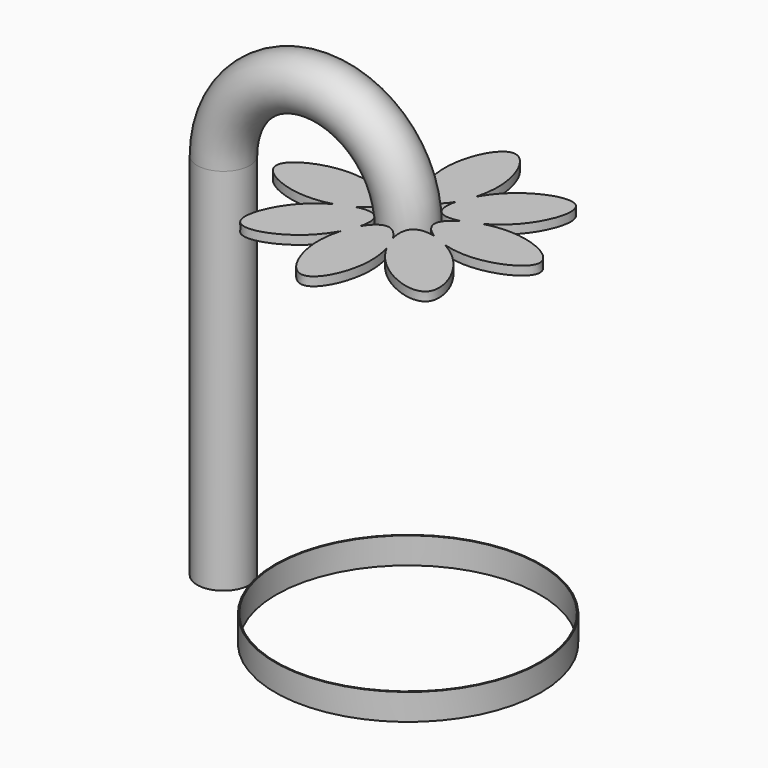
from build123d import *

# Parameters (mm, degrees)
F0_R     = 768.35
F0_R_2   = 762
F2_DEPTH = 152.4
F3_R     = 152.4
F6_DEPTH = 50.8


with BuildPart() as f2:
    # F0 (on Top) → F2 (new body)
    with BuildSketch(Plane.XY):
        Circle(F0_R)
        Circle(F0_R_2, mode=Mode.SUBTRACT)
    extrude(amount=F2_DEPTH)


with BuildPart() as f4:
    # F4: sweep along a path in F1
    with BuildLine(Plane.XZ) as f4_path:
        Line((-1066.8, 0), (-1066.8, 2133.6))
        ThreePointArc((-1066.8, 2133.6), (-533.4, 2667), (0, 2133.6))
    # F3 (on Top) → F4 (sweep)
    with BuildSketch(Plane.XY):
        with Locations((-1066.8, 0)):
            Circle(F3_R)
    sweep(path=f4_path.line)


with BuildPart() as f6:
    # F5 (on face) → F6 (new body)
    with BuildSketch(Plane(origin=(0, 0, 2133.6), x_dir=(1, 0, 0), z_dir=(0, 0, -1))):
        with BuildLine():
            add(Edge.make_bspline(
                [(0, 152.4), (-33.9863916978, 152.4), (-67.9727833955, 182.7169244261), (-95.1982638819, 229.8289508555)],
                knots=[0, 0, 0, 0, 0.1115039098, 0.1115039098, 0.1115039098, 0.1115039098], degree=3))
            add(Edge.make_bspline(
                [(95.1983081161, 229.8290274001), (67.9728202081, 182.7169572641), (33.9864101041, 152.4), (0, 152.4)],
                knots=[0.8884960298, 0.8884960298, 0.8884960298, 0.8884960298, 1, 1, 1, 1], degree=3))
            add(Edge.make_bspline(
                [(95.1983081161, 229.8290274001), (102.9814227805, 258.9229000048), (115.8672800287, 290.1903934408), (133.0452629742, 321.1996570491)],
                knots=[0.1115039746, 0.1115039746, 0.1115039746, 0.1115039746, 0.1732200877, 0.1732200877, 0.1732200877, 0.1732200877], degree=3))
            add(Edge.make_bspline(
                [(-133.0452885204, 321.1997460504), (-145.2126364631, 363.5899918586), (-175.8025020354, 562.7949959293), (0, 914.4), (175.8025184138, 562.7949631725), (145.2126264028, 363.589926345), (133.0452629742, 321.1996570491)],
                knots=[0.1732201377, 0.1732201377, 0.1732201377, 0.1732201377, 0.25, 0.5, 0.75, 0.8267799161, 0.8267799161, 0.8267799161, 0.8267799161], degree=3))
            add(Edge.make_bspline(
                [(-133.0452885204, 321.1997460504), (-115.8672658629, 290.1904260745), (-102.9813838682, 258.9228729972), (-95.1982638819, 229.8289508555)],
                knots=[0.8267798533, 0.8267798533, 0.8267798533, 0.8267798533, 0.8884960795, 0.8884960795, 0.8884960795, 0.8884960795], degree=3))
        make_face()
        with BuildLine():
            add(Edge.make_bspline(
                [(-95.1982638819, 229.8289508555), (-81.1363478478, 177.2643892169), (-83.7310512319, 131.7950719165), (-107.7630615742, 107.7630615742)],
                knots=[0.8884960795, 0.8884960795, 0.8884960795, 0.8884960795, 1, 1, 1, 1], degree=3))
            add(Edge.make_bspline(
                [(-95.1982638819, 229.8289508555), (-110.267277714, 255.9049563195), (-123.2650831907, 287.1261492456), (-133.0452885204, 321.1997460504)],
                knots=[0.1115039098, 0.1115039098, 0.1115039098, 0.1115039098, 0.1732201377, 0.1732201377, 0.1732201377, 0.1732201377], degree=3))
            add(Edge.make_bspline(
                [(-321.1997460503, 133.0452885204), (-359.7777859078, 154.4161035938), (-522.2672894533, 273.6450106831), (-646.5784288384, 646.5784288384), (-273.6450106831, 522.2672894533), (-154.4161035938, 359.7777859079), (-133.0452885204, 321.1997460504)],
                knots=[0.1732201467, 0.1732201467, 0.1732201467, 0.1732201467, 0.25, 0.5, 0.75, 0.8267798533, 0.8267798533, 0.8267798533, 0.8267798533], degree=3))
            add(Edge.make_bspline(
                [(-321.1997460503, 133.0452885204), (-287.1261492455, 123.2650831907), (-255.9049563194, 110.267277714), (-229.8289508555, 95.1982638819)],
                knots=[0.3267798623, 0.3267798623, 0.3267798623, 0.3267798623, 0.3884960902, 0.3884960902, 0.3884960902, 0.3884960902], degree=3))
            add(Edge.make_bspline(
                [(-107.7630615742, 107.7630615742), (-131.7950719165, 83.731051232), (-177.2643892169, 81.1363478478), (-229.8289508555, 95.1982638819)],
                knots=[0, 0, 0, 0, 0.1115039205, 0.1115039205, 0.1115039205, 0.1115039205], degree=3))
        make_face()
        with BuildLine():
            add(Edge.make_bspline(
                [(-95.1982638819, 229.8289508555), (-110.267277714, 255.9049563195), (-123.2650831907, 287.1261492456), (-133.0452885204, 321.1997460504)],
                knots=[0.1115039098, 0.1115039098, 0.1115039098, 0.1115039098, 0.1732201377, 0.1732201377, 0.1732201377, 0.1732201377], degree=3))
            add(Edge.make_bspline(
                [(-133.0452885204, 321.1997460504), (-115.8672658629, 290.1904260745), (-102.9813838682, 258.9228729972), (-95.1982638819, 229.8289508555)],
                knots=[0.8267798533, 0.8267798533, 0.8267798533, 0.8267798533, 0.8884960795, 0.8884960795, 0.8884960795, 0.8884960795], degree=3))
        make_face()
        with BuildLine():
            add(Edge.make_bspline(
                [(95.1983081161, 229.8290274001), (102.9814227805, 258.9229000048), (115.8672800287, 290.1903934408), (133.0452629742, 321.1996570491)],
                knots=[0.1115039746, 0.1115039746, 0.1115039746, 0.1115039746, 0.1732200877, 0.1732200877, 0.1732200877, 0.1732200877], degree=3))
            add(Edge.make_bspline(
                [(133.0452629742, 321.1996570491), (123.2650701267, 287.1261282188), (110.2672900299, 255.9049947143), (95.1983081161, 229.8290274001)],
                knots=[0.8267799161, 0.8267799161, 0.8267799161, 0.8267799161, 0.8884960298, 0.8884960298, 0.8884960298, 0.8884960298], degree=3))
        make_face()
        with BuildLine():
            add(Edge.make_bspline(
                [(133.0452629742, 321.1996570491), (123.2650701267, 287.1261282188), (110.2672900299, 255.9049947143), (95.1983081161, 229.8290274001)],
                knots=[0.8267799161, 0.8267799161, 0.8267799161, 0.8267799161, 0.8884960298, 0.8884960298, 0.8884960298, 0.8884960298], degree=3))
            add(Edge.make_bspline(
                [(107.7630853314, 107.7630615742), (83.731063324, 131.7950835816), (81.1363690861, 177.2644333586), (95.1983081161, 229.8290274001)],
                knots=[0, 0, 0, 0, 0.1115039746, 0.1115039746, 0.1115039746, 0.1115039746], degree=3))
            add(Edge.make_bspline(
                [(229.8289303785, 95.1982520485), (177.2643874652, 81.1363493035), (131.7950889326, 83.7310579731), (107.7630853314, 107.7630615742)],
                knots=[0.8884961108, 0.8884961108, 0.8884961108, 0.8884961108, 1, 1, 1, 1], degree=3))
            add(Edge.make_bspline(
                [(229.8289303785, 95.1982520485), (255.9049525516, 110.2672781775), (287.1261704438, 123.2650931689), (321.1997953538, 133.0453026721)],
                knots=[0.1115038936, 0.1115038936, 0.1115038936, 0.1115038936, 0.1732201674, 0.1732201674, 0.1732201674, 0.1732201674], degree=3))
            add(Edge.make_bspline(
                [(133.0452629742, 321.1996570491), (154.4160842648, 359.7777271884), (273.6449962632, 522.2672767276), (646.5784525956, 646.5784288384), (522.2673168632, 273.6450216411), (359.7778265194, 154.4161159609), (321.1997953538, 133.0453026721)],
                knots=[0.1732200877, 0.1732200877, 0.1732200877, 0.1732200877, 0.25, 0.5, 0.75, 0.8267798363, 0.8267798363, 0.8267798363, 0.8267798363], degree=3))
        make_face()
        with BuildLine():
            add(Edge.make_bspline(
                [(-229.8289508555, 95.1982638819), (-258.9228729971, 102.9813838681), (-290.1904260744, 115.8672658628), (-321.1997460503, 133.0452885204)],
                knots=[0.1115039205, 0.1115039205, 0.1115039205, 0.1115039205, 0.1732201467, 0.1732201467, 0.1732201467, 0.1732201467], degree=3))
            add(Edge.make_bspline(
                [(-762, 0), (-762, 76.2), (-562.7949959292, 175.8025020354), (-363.5899918585, 145.212636463), (-321.1997460503, 133.0452885204)],
                knots=[0, 0, 0, 0, 0.25, 0.3267798623, 0.3267798623, 0.3267798623, 0.3267798623], degree=3))
            add(Edge.make_bspline(
                [(-321.1996771495, -133.0452687437), (-363.5899411409, -145.2126286749), (-562.7949705704, -175.8025147148), (-762, -76.2), (-762, 0)],
                knots=[0.6732200961, 0.6732200961, 0.6732200961, 0.6732200961, 0.75, 1, 1, 1, 1], degree=3))
            add(Edge.make_bspline(
                [(-321.1996771496, -133.0452687437), (-290.1903967598, -115.8672731593), (-258.9228858823, -102.9814080213), (-229.8289992228, -95.1982918328)],
                knots=[0.3267799011, 0.3267799011, 0.3267799011, 0.3267799011, 0.3884960498, 0.3884960498, 0.3884960498, 0.3884960498], degree=3))
            add(Edge.make_bspline(
                [(-229.8289508555, 95.1982638819), (-182.7169244261, 67.9727833955), (-122.083065199, -1.16306e-05), (-182.7169451759, -67.9728066568), (-229.8289992228, -95.1982918328)],
                knots=[0.3884960902, 0.3884960902, 0.3884960902, 0.3884960902, 0.5, 0.6115039479, 0.6115039479, 0.6115039479, 0.6115039479], degree=3))
        make_face()
        with BuildLine():
            add(Edge.make_bspline(
                [(-321.1997460503, 133.0452885204), (-287.1261492455, 123.2650831907), (-255.9049563194, 110.267277714), (-229.8289508555, 95.1982638819)],
                knots=[0.3267798623, 0.3267798623, 0.3267798623, 0.3267798623, 0.3884960902, 0.3884960902, 0.3884960902, 0.3884960902], degree=3))
            add(Edge.make_bspline(
                [(-229.8289508555, 95.1982638819), (-258.9228729971, 102.9813838681), (-290.1904260744, 115.8672658628), (-321.1997460503, 133.0452885204)],
                knots=[0.1115039205, 0.1115039205, 0.1115039205, 0.1115039205, 0.1732201467, 0.1732201467, 0.1732201467, 0.1732201467], degree=3))
        make_face()
        with BuildLine():
            add(Edge.make_bspline(
                [(321.1997953538, 133.0453026721), (290.1904512888, 115.8672642342), (258.9228730512, 102.9813729444), (229.8289303785, 95.1982520485)],
                knots=[0.8267798363, 0.8267798363, 0.8267798363, 0.8267798363, 0.8884961108, 0.8884961108, 0.8884961108, 0.8884961108], degree=3))
            add(Edge.make_bspline(
                [(229.8289303785, 95.1982520485), (255.9049525516, 110.2672781775), (287.1261704438, 123.2650931689), (321.1997953538, 133.0453026721)],
                knots=[0.1115038936, 0.1115038936, 0.1115038936, 0.1115038936, 0.1732201674, 0.1732201674, 0.1732201674, 0.1732201674], degree=3))
        make_face()
        with BuildLine():
            add(Edge.make_bspline(
                [(321.1997953538, 133.0453026721), (363.5900281506, 145.2126420361), (562.7950140753, 175.8024929623), (914.4, 0), (562.7949813186, -175.8025093407), (363.5899626372, -145.2126319758), (321.1997063526, -133.0452771259)],
                knots=[0.1732201674, 0.1732201674, 0.1732201674, 0.1732201674, 0.25, 0.5, 0.75, 0.8267798863, 0.8267798863, 0.8267798863, 0.8267798863], degree=3))
            add(Edge.make_bspline(
                [(321.1997953538, 133.0453026721), (290.1904512888, 115.8672642342), (258.9228730512, 102.9813729444), (229.8289303785, 95.1982520485)],
                knots=[0.8267798363, 0.8267798363, 0.8267798363, 0.8267798363, 0.8884961108, 0.8884961108, 0.8884961108, 0.8884961108], degree=3))
            add(Edge.make_bspline(
                [(152.4, 0), (152.4, 33.9863867738), (182.7169156414, 67.9727735475), (229.8289303785, 95.1982520485)],
                knots=[0, 0, 0, 0, 0.1115038936, 0.1115038936, 0.1115038936, 0.1115038936], degree=3))
            add(Edge.make_bspline(
                [(229.8290069231, -95.1982962827), (182.7169484794, -67.9728103601), (152.4, -33.9864051801), (152.4, 0)],
                knots=[0.888496046, 0.888496046, 0.888496046, 0.888496046, 1, 1, 1, 1], degree=3))
            add(Edge.make_bspline(
                [(229.8290069231, -95.1982962827), (258.9229000588, -102.9814118568), (290.1904186552, -115.8672784), (321.1997063526, -133.0452771259)],
                knots=[0.1115039433, 0.1115039433, 0.1115039433, 0.1115039433, 0.1732201046, 0.1732201046, 0.1732201046, 0.1732201046], degree=3))
        make_face()
        with BuildLine():
            add(Edge.make_bspline(
                [(-229.8289992228, -95.1982918328), (-177.2644229566, -81.1363615976), (-131.7950903554, -83.7310580514), (-107.7630734528, -107.7630734528)],
                knots=[0.3884960498, 0.3884960498, 0.3884960498, 0.3884960498, 0.4999999972, 0.4999999972, 0.4999999972, 0.4999999972], degree=3))
            add(Edge.make_bspline(
                [(-229.8289992228, -95.1982918328), (-255.9049773504, -110.2672836296), (-287.1261282242, -123.2650717156), (-321.1996771495, -133.0452687437)],
                knots=[0.6115039479, 0.6115039479, 0.6115039479, 0.6115039479, 0.6732200961, 0.6732200961, 0.6732200961, 0.6732200961], degree=3))
            add(Edge.make_bspline(
                [(-538.8153553855, -538.8153791428), (-592.6968922109, -484.9338425153), (-522.267276078, -273.6450070554), (-359.7777402386, -154.4160902871), (-321.1996771496, -133.0452687437)],
                knots=[0, 0, 0, 0, 0.25, 0.3267799011, 0.3267799011, 0.3267799011, 0.3267799011], degree=3))
            add(Edge.make_bspline(
                [(-133.0452969026, -321.1997752533), (-154.4161099387, -359.7778134692), (-273.6450108489, -522.2673175128), (-484.9338185601, -592.6969157702), (-538.8153553855, -538.8153791428)],
                knots=[0.6732201525, 0.6732201525, 0.6732201525, 0.6732201525, 0.75, 1, 1, 1, 1], degree=3))
            add(Edge.make_bspline(
                [(-133.0452969026, -321.1997752533), (-123.26509158, -287.1261704384), (-110.2672845778, -255.9049699154), (-95.1982683318, -229.8289585557)],
                knots=[0.8267798447, 0.8267798447, 0.8267798447, 0.8267798447, 0.8884960842, 0.8884960842, 0.8884960842, 0.8884960842], degree=3))
            add(Edge.make_bspline(
                [(-107.7630734528, -107.7630734528), (-83.7310632458, -131.7950821588), (-81.136356792, -177.2643978671), (-95.1982683318, -229.8289585557)],
                knots=[0.4999999972, 0.4999999972, 0.4999999972, 0.4999999972, 0.6115039136, 0.6115039136, 0.6115039136, 0.6115039136], degree=3))
        make_face()
        with BuildLine():
            add(Edge.make_bspline(
                [(-229.8289992228, -95.1982918328), (-255.9049773504, -110.2672836296), (-287.1261282242, -123.2650717156), (-321.1996771495, -133.0452687437)],
                knots=[0.6115039479, 0.6115039479, 0.6115039479, 0.6115039479, 0.6732200961, 0.6732200961, 0.6732200961, 0.6732200961], degree=3))
            add(Edge.make_bspline(
                [(-321.1996771496, -133.0452687437), (-290.1903967598, -115.8672731593), (-258.9228858823, -102.9814080213), (-229.8289992228, -95.1982918328)],
                knots=[0.3267799011, 0.3267799011, 0.3267799011, 0.3267799011, 0.3884960498, 0.3884960498, 0.3884960498, 0.3884960498], degree=3))
        make_face()
        with BuildLine():
            add(Edge.make_bspline(
                [(321.1997063526, -133.0452771259), (359.7777678, -154.416096632), (522.2673041375, -273.6450072213), (646.5784525956, -646.5784525956), (273.6450072213, -522.2673041375), (154.416096632, -359.7777678), (133.0452771259, -321.1997063526)],
                knots=[0.1732201046, 0.1732201046, 0.1732201046, 0.1732201046, 0.25, 0.5, 0.75, 0.8267798954, 0.8267798954, 0.8267798954, 0.8267798954], degree=3))
            add(Edge.make_bspline(
                [(321.1997063526, -133.0452771259), (287.1261494171, -123.2650801049), (255.9049909464, -110.2672904934), (229.8290069231, -95.1982962827)],
                knots=[0.8267798863, 0.8267798863, 0.8267798863, 0.8267798863, 0.888496046, 0.888496046, 0.888496046, 0.888496046], degree=3))
            add(Edge.make_bspline(
                [(107.7630853314, -107.7630853314), (131.7951005977, -83.7310700652), (177.2644316068, -81.1363705418), (229.8290069231, -95.1982962827)],
                knots=[0, 0, 0, 0, 0.1115039433, 0.1115039433, 0.1115039433, 0.1115039433], degree=3))
            add(Edge.make_bspline(
                [(95.1982962827, -229.8290069231), (81.1363705418, -177.2644316068), (83.7310700652, -131.7951005977), (107.7630853314, -107.7630853314)],
                knots=[0.8884960567, 0.8884960567, 0.8884960567, 0.8884960567, 1, 1, 1, 1], degree=3))
            add(Edge.make_bspline(
                [(95.1982962827, -229.8290069231), (110.2672904934, -255.9049909464), (123.2650801049, -287.1261494171), (133.0452771259, -321.1997063526)],
                knots=[0.111503954, 0.111503954, 0.111503954, 0.111503954, 0.1732201137, 0.1732201137, 0.1732201137, 0.1732201137], degree=3))
        make_face()
        with BuildLine():
            add(Edge.make_bspline(
                [(321.1997063526, -133.0452771259), (287.1261494171, -123.2650801049), (255.9049909464, -110.2672904934), (229.8290069231, -95.1982962827)],
                knots=[0.8267798863, 0.8267798863, 0.8267798863, 0.8267798863, 0.888496046, 0.888496046, 0.888496046, 0.888496046], degree=3))
            add(Edge.make_bspline(
                [(229.8290069231, -95.1982962827), (258.9229000588, -102.9814118568), (290.1904186552, -115.8672784), (321.1997063526, -133.0452771259)],
                knots=[0.1115039433, 0.1115039433, 0.1115039433, 0.1115039433, 0.1732201046, 0.1732201046, 0.1732201046, 0.1732201046], degree=3))
        make_face()
        with BuildLine():
            add(Edge.make_bspline(
                [(133.0452771259, -321.1997063526), (115.8672784, -290.1904186552), (102.9814118568, -258.9229000588), (95.1982962827, -229.8290069231)],
                knots=[0.8267798954, 0.8267798954, 0.8267798954, 0.8267798954, 0.8884960567, 0.8884960567, 0.8884960567, 0.8884960567], degree=3))
            add(Edge.make_bspline(
                [(95.1982962827, -229.8290069231), (110.2672904934, -255.9049909464), (123.2650801049, -287.1261494171), (133.0452771259, -321.1997063526)],
                knots=[0.111503954, 0.111503954, 0.111503954, 0.111503954, 0.1732201137, 0.1732201137, 0.1732201137, 0.1732201137], degree=3))
        make_face()
        with BuildLine():
            add(Edge.make_bspline(
                [(133.0452771259, -321.1997063526), (145.2126319758, -363.5899626372), (175.8025093407, -562.7949813186), (0, -914.4), (-175.8024966613, -562.7950066774), (-145.212639764, -363.5900133548), (-133.0452969026, -321.1997752533)],
                knots=[0.1732201137, 0.1732201137, 0.1732201137, 0.1732201137, 0.25, 0.5, 0.75, 0.8267798447, 0.8267798447, 0.8267798447, 0.8267798447], degree=3))
            add(Edge.make_bspline(
                [(133.0452771259, -321.1997063526), (115.8672784, -290.1904186552), (102.9814118568, -258.9229000588), (95.1982962827, -229.8290069231)],
                knots=[0.8267798954, 0.8267798954, 0.8267798954, 0.8267798954, 0.8884960567, 0.8884960567, 0.8884960567, 0.8884960567], degree=3))
            add(Edge.make_bspline(
                [(0, -152.4), (33.9864051801, -152.4), (67.9728103601, -182.7169484794), (95.1982962827, -229.8290069231)],
                knots=[0, 0, 0, 0, 0.111503954, 0.111503954, 0.111503954, 0.111503954], degree=3))
            add(Edge.make_bspline(
                [(-95.1982683318, -229.8289585557), (-67.9727870988, -182.7169277295), (-33.9863935494, -152.4), (0, -152.4)],
                knots=[0.8884960842, 0.8884960842, 0.8884960842, 0.8884960842, 1, 1, 1, 1], degree=3))
            add(Edge.make_bspline(
                [(-95.1982683318, -229.8289585557), (-102.9813877036, -258.9228871735), (-115.8672711036, -290.1904479698), (-133.0452969026, -321.1997752533)],
                knots=[0.6115039136, 0.6115039136, 0.6115039136, 0.6115039136, 0.6732201525, 0.6732201525, 0.6732201525, 0.6732201525], degree=3))
        make_face()
        with BuildLine():
            add(Edge.make_bspline(
                [(-95.1982683318, -229.8289585557), (-102.9813877036, -258.9228871735), (-115.8672711036, -290.1904479698), (-133.0452969026, -321.1997752533)],
                knots=[0.6115039136, 0.6115039136, 0.6115039136, 0.6115039136, 0.6732201525, 0.6732201525, 0.6732201525, 0.6732201525], degree=3))
            add(Edge.make_bspline(
                [(-133.0452969026, -321.1997752533), (-123.26509158, -287.1261704384), (-110.2672845778, -255.9049699154), (-95.1982683318, -229.8289585557)],
                knots=[0.8267798447, 0.8267798447, 0.8267798447, 0.8267798447, 0.8884960842, 0.8884960842, 0.8884960842, 0.8884960842], degree=3))
        make_face()
    extrude(amount=-F6_DEPTH)


solid = Compound([f2.part, f4.part, f6.part])
